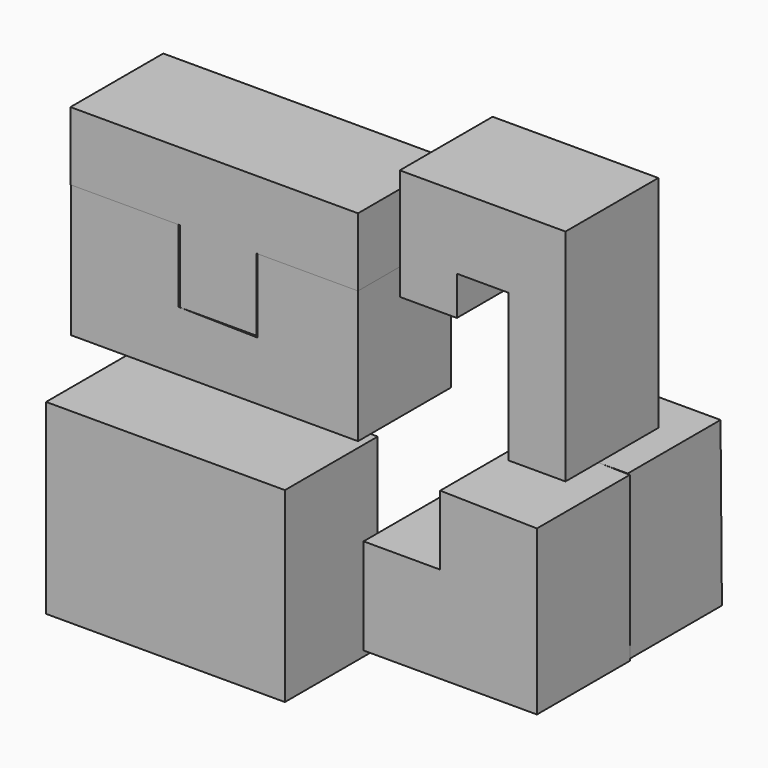
from build123d import *

# Parameters (mm, degrees)
F1_DEPTH  = 25
F3_DEPTH  = 25
F4_W      = 51.450003
F4_H      = 40.2
F5_DEPTH  = 25
F7_DEPTH  = 25
F8_DEPTH  = 25
F10_DEPTH = 25
F12_DEPTH = 25


with BuildPart() as f1:
    # F0 (on Front) → F1 (new body)
    with BuildSketch(Plane.XZ):
        Polygon((-30.749999, 32.699998), (-46.050005, 32.699998), (-46.050005, 3.9), (15.75, 3.9), (15.75, 32.699998), (-5.850002, 32.699998), (-5.850002, 16.500002), (-22.950001, 16.800001), (-22.950001, 32.699998), align=None)
    extrude(amount=F1_DEPTH)


with BuildPart() as f3:
    # F2 (on Front) → F3 (new body)
    with BuildSketch(Plane.XZ):
        Polygon((-22.650002, 32.400001), (-22.650002, 16.800001), (-6.150001, 16.800001), (-6.150001, 32.400001), (15.75, 32.400001), (15.75, 47.124289), (-46.206031, 47.124289), (-46.206031, 32.400001), align=None)
    extrude(amount=F3_DEPTH)


with BuildPart() as f5:
    # F4 (on Front) → F5 (new body)
    with BuildSketch(Plane.XZ):
        with Locations((-25.725001, -30.600001)):
            Rectangle(F4_W, F4_H)
    extrude(amount=F5_DEPTH)


with BuildPart() as f7:
    # F6 (on Front) → F7 (new body)
    with BuildSketch(Plane.XZ):
        Polygon((54.296691, -35.399999), (54.296691, -0.110316), (33.45, 0.283018), (33.45, -14.700001), (16.950002, -14.700001), (16.950002, -35.399999), align=None)
    extrude(amount=F7_DEPTH)

    # F6 (on Front) → F8 (join)
    with BuildSketch(Plane.XZ):
        Polygon((54.296691, -35.399999), (54.296691, -0.110316), (33.45, 0.283018), (33.45, -14.700001), (16.950002, -14.700001), (16.950002, -35.399999), align=None)
    extrude(amount=F8_DEPTH)

    # F9 (on Front) → F10 (join)
    with BuildSketch(Plane.XZ):
        Polygon((54.150004, -35.100002), (53.850003, 0), (33.750001, 0), (33.750001, -14.400001), (16.95, -14.400001), (16.95, -35.100002), align=None)
    extrude(amount=-F10_DEPTH)


with BuildPart() as f12:
    # F11 (on Front) → F12 (new body)
    with BuildSketch(Plane.XZ):
        Polygon((24.75, 58.200005), (24.75, 34.200002), (37.050005, 34.200002), (37.050005, 42.600002), (48.150003, 42.600002), (48.150003, 10.8), (60.450006, 10.8), (60.450006, 58.200005), align=None)
    extrude(amount=F12_DEPTH)


solid = Compound([f1.part, f3.part, f5.part, f7.part, f12.part])
